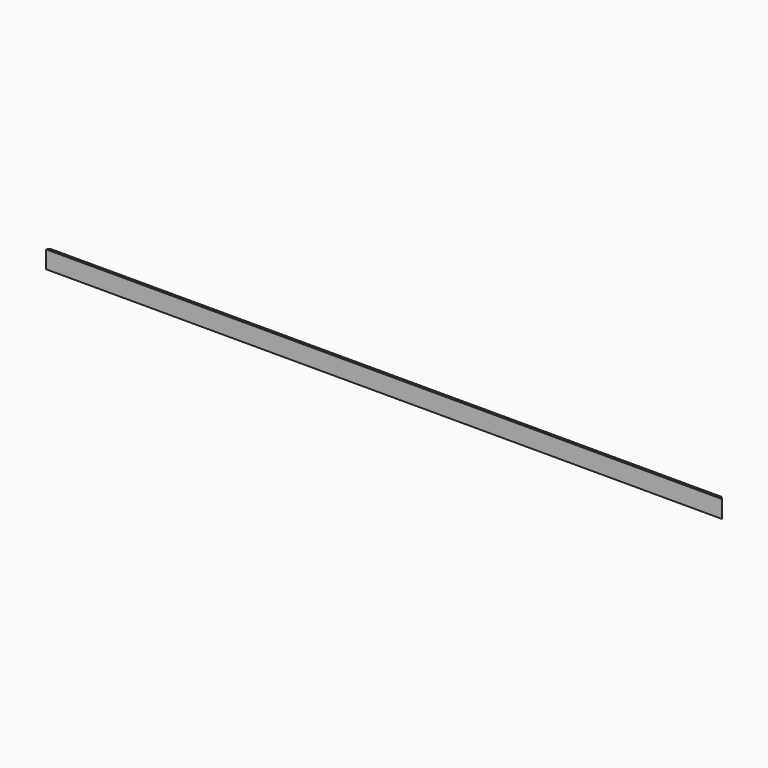
from build123d import *

# Parameters (mm, degrees)
F1_DEPTH      = 1219.2
F1_DEPTH_BACK = 1219.2
F3_DEPTH      = 63.501


with BuildPart() as f1:
    # F0 (on Right) → F1 (new body, two sides)
    with BuildSketch(Plane.YZ) as f1_sk:
        Polygon((0, 31.75), (-9.525, 31.75), (-9.525, -31.75), (0, -31.75), (0, -19.05), (9.525, -19.05), (9.525, 19.05), (0, 19.05), align=None)
    extrude(amount=F1_DEPTH)
    extrude(f1_sk.sketch, amount=-F1_DEPTH_BACK)

    # F2 (on face) → F3 (cut, through all)
    with BuildSketch(Plane.XY.offset(31.75)):
        Polygon((-1219.2, 0), (-1209.675, 0), (-1200.15, 9.525), (-1219.2, 9.525), align=None)
        Polygon((-1219.2, 0), (-1219.2, -9.525), (-1209.675, 0), align=None)
        Polygon((1200.15, 9.525), (1209.675, 0), (1219.2, 0), (1219.2, 9.525), align=None)
        Polygon((1209.675, 0), (1219.2, -9.525), (1219.2, 0), align=None)
    extrude(amount=-F3_DEPTH, mode=Mode.SUBTRACT)


solid = f1.part
